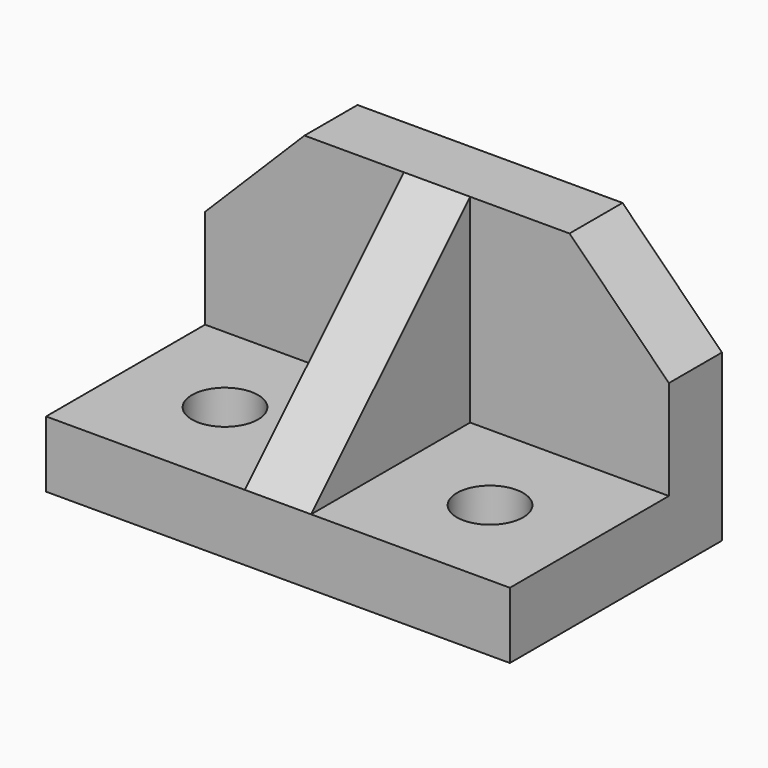
from build123d import *

# Parameters (mm, degrees)
F0_W     = 76.2
F0_H     = 25.4
F0_H_2   = 76.2
F0_R     = 12.7
F1_DEPTH = 25.4
F2_W     = 50.8
F2_H     = 25.4
F2_W_2   = 25.4
F2_H_2   = 76.2
F3_DEPTH = 76.2
F4_SIZE  = 76.2
F5_SIZE  = 38.1


with BuildPart() as f1:
    # F0 (on Top) → F1 (new body)
    with BuildSketch(Plane.XY):
        with Locations((-58.3860762448, 48.220597668)):
            Rectangle(F0_W, F0_H)
        Polygon((5.1139237552, 60.920597668), (-20.2860762448, 60.920597668), (-20.2860762448, 35.520597668), (-20.2860762448, -40.679402332), (5.1139237552, -40.679402332), (5.1139237552, 35.520597668), align=None)
        with Locations((-58.3860762448, -2.579402332)):
            Rectangle(F0_W, F0_H_2)
        with Locations((-58.3860762448, -2.579402332)):
            Circle(F0_R, mode=Mode.SUBTRACT)
        with Locations((43.2139237552, 48.220597668)):
            Rectangle(F0_W, F0_H)
        with Locations((43.2139237552, -2.579402332)):
            Rectangle(F0_W, F0_H_2)
        with Locations((43.2139237552, -2.579402332)):
            Circle(F0_R, mode=Mode.SUBTRACT)
    extrude(amount=F1_DEPTH)

    # F2 (on face) → F3 (join)
    with BuildSketch(Plane.XY.offset(25.4)):
        with Locations((55.9139237552, 48.220597668)):
            Rectangle(F2_W, F2_H)
        with Locations((-32.9860762448, 48.220597668)):
            Rectangle(F2_W_2, F2_H)
        with Locations((-7.5860762448, 48.220597668)):
            Rectangle(F2_W_2, F2_H)
        with Locations((17.8139237552, 48.220597668)):
            Rectangle(F2_W_2, F2_H)
        with Locations((-71.0860762448, 48.220597668)):
            Rectangle(F2_W, F2_H)
        with Locations((-7.5860762448, -2.579402332)):
            Rectangle(F2_W_2, F2_H_2)
    extrude(amount=F3_DEPTH)

    # F4
    f4_edges = [f1.edges().sort_by_distance(p)[0] for p in [
        (-7.586076, -40.679402, 101.6),
    ]]
    chamfer(f4_edges, length=F4_SIZE)

    # F5
    f5_edges = [f1.edges().sort_by_distance(p)[0] for p in [
        (81.313924, 48.220598, 101.6),
        (-96.486076, 48.220598, 101.6),
    ]]
    chamfer(f5_edges, length=F5_SIZE)


solid = f1.part
